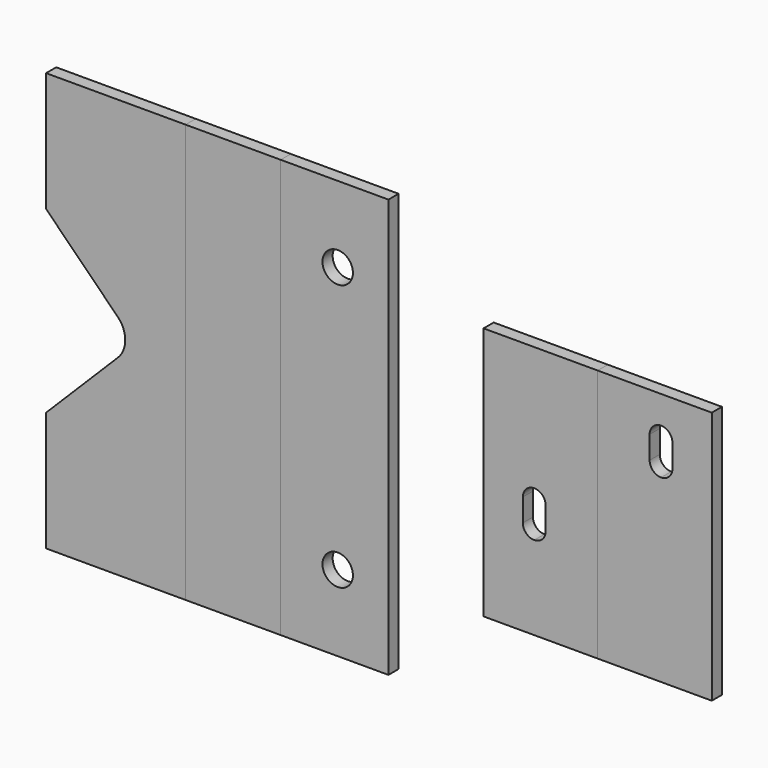
from build123d import *

# Parameters (mm, degrees)
F0_W     = 90
F0_H     = 200
F1_DEPTH = 10
F0_W_2   = 85
F0_H_2   = 330
F0_R     = 12
F2_DEPTH = 10
F0_W_3   = 75
F3_DEPTH = 10


with BuildPart() as f1:
    # F0 (on Front) → F1 (new body)
    with BuildSketch(Plane.XZ):
        with BuildLine():
            Line((-25, -165), (-25, 165))
            Line((-25, 165), (-135, 165))
            Line((-135, 165), (-135, 70.710678))
            Line((-135, 70.710678), (-78.431458, 14.142136))
            ThreePointArc((-78.431458, 14.142136), (-72.573593, 0), (-78.431458, -14.142136))
            Line((-78.431458, -14.142136), (-135, -70.710678))
            Line((-135, -70.710678), (-135, -165))
            Line((-135, -165), (-25, -165))
        make_face()
        with Locations((255, 0)):
            Rectangle(F0_W, F0_H)
        Polygon((250, 2), (259, 2), (259, -7), (259, -25), (259, -34), (250, -34), (241, -34), (241, -25), (241, -7), (241, 2), align=None, mode=Mode.SUBTRACT)
        with BuildLine():
            Line((259, -34), (259, -25))
            ThreePointArc((259, -25), (256.363961, -31.363961), (250, -34))
            Line((250, -34), (259, -34))
        make_face()
        with BuildLine():
            Line((259, -7), (259, 2))
            Line((259, 2), (250, 2))
            ThreePointArc((250, 2), (256.363961, -0.636039), (259, -7))
        make_face()
        with BuildLine():
            ThreePointArc((241, -7), (243.636039, -0.636039), (250, 2))
            Line((250, 2), (241, 2))
            Line((241, 2), (241, -7))
        make_face()
        with BuildLine():
            ThreePointArc((250, -34), (243.636039, -31.363961), (241, -25))
            Line((241, -25), (241, -34))
            Line((241, -34), (250, -34))
        make_face()
    extrude(amount=F1_DEPTH)


with BuildPart() as f2:
    # F0 (on Front) → F2 (new body)
    with BuildSketch(Plane.XZ):
        with Locations((92.5, 0)):
            Rectangle(F0_W_2, F0_H_2)
        with Locations((95, -105)):
            Circle(F0_R, mode=Mode.SUBTRACT)
        with Locations((95, 105)):
            Circle(F0_R, mode=Mode.SUBTRACT)
        with Locations((345, 0)):
            Rectangle(F0_W, F0_H)
        Polygon((350, 78), (359, 78), (359, 69), (359, 51), (359, 42), (350, 42), (341, 42), (341, 51), (341, 69), (341, 78), align=None, mode=Mode.SUBTRACT)
        with BuildLine():
            ThreePointArc((341, 69), (343.636039, 75.363961), (350, 78))
            Line((350, 78), (341, 78))
            Line((341, 78), (341, 69))
        make_face()
        with BuildLine():
            Line((359, 69), (359, 78))
            Line((359, 78), (350, 78))
            ThreePointArc((350, 78), (356.363961, 75.363961), (359, 69))
        make_face()
        with BuildLine():
            Line((359, 42), (359, 51))
            ThreePointArc((359, 51), (356.363961, 44.636039), (350, 42))
            Line((350, 42), (359, 42))
        make_face()
        with BuildLine():
            ThreePointArc((350, 42), (343.636039, 44.636039), (341, 51))
            Line((341, 51), (341, 42))
            Line((341, 42), (350, 42))
        make_face()
    extrude(amount=F2_DEPTH)


with BuildPart() as f3:
    # F0 (on Front) → F3 (new body)
    with BuildSketch(Plane.XZ):
        with Locations((12.5, 0)):
            Rectangle(F0_W_3, F0_H_2)
    extrude(amount=F3_DEPTH)


solid = Compound([f1.part, f2.part, f3.part])
